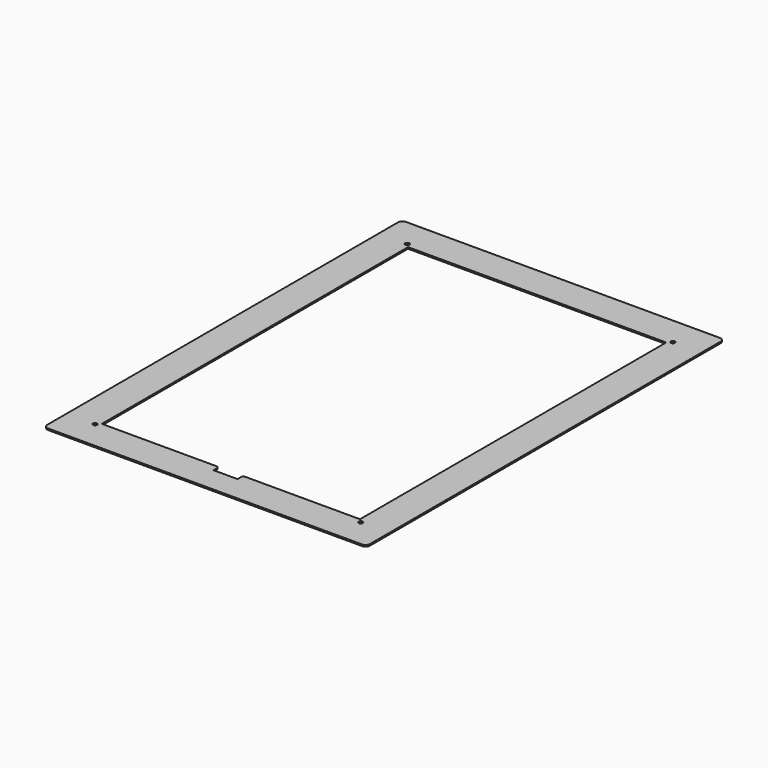
from build123d import *

# Parameters (mm, degrees)
F0_W     = 341.3125
F0_H     = 473.075
F0_R     = 2.15265
F0_W_2   = 273.05
F0_H_2   = 404.8125
F1_DEPTH = 1.5875
F2_R     = 4.7625
F3_W     = 25.4
F3_H     = 7.14375
F4_DEPTH = 1.5875
F5_SIZE  = 1.5875


with BuildPart() as f1:
    # F0 (on Top) → F1 (new body)
    with BuildSketch(Plane.XY):
        Rectangle(F0_W, F0_H)
        with Locations((-140.49375, -206.375)):
            Circle(F0_R, mode=Mode.SUBTRACT)
        with Locations((140.49375, -206.375)):
            Circle(F0_R, mode=Mode.SUBTRACT)
        Rectangle(F0_W_2, F0_H_2, mode=Mode.SUBTRACT)
        with Locations((-140.49375, 206.375)):
            Circle(F0_R, mode=Mode.SUBTRACT)
        with Locations((140.49375, 206.375)):
            Circle(F0_R, mode=Mode.SUBTRACT)
    extrude(amount=F1_DEPTH)

    # F2
    f2_edges = [f1.edges().sort_by_distance(p)[0] for p in [
        (-170.65625, 236.5375, 0.79375),
        (170.65625, 236.5375, 0.79375),
        (170.65625, -236.5375, 0.79375),
        (-170.65625, -236.5375, 0.79375),
    ]]
    fillet(f2_edges, radius=F2_R)

    # F3 (on face) → F4 (cut, through all)
    with BuildSketch(Plane.XY.offset(1.5875)):
        with Locations((0, -205.978125)):
            Rectangle(F3_W, F3_H)
    extrude(amount=-F4_DEPTH, mode=Mode.SUBTRACT)

    # F5
    f5_edges = [f1.edges().sort_by_distance(p)[0] for p in [
        (12.7, -202.40625, 0.79375),
        (-12.7, -202.40625, 0.79375),
    ]]
    chamfer(f5_edges, length=F5_SIZE)


solid = f1.part
